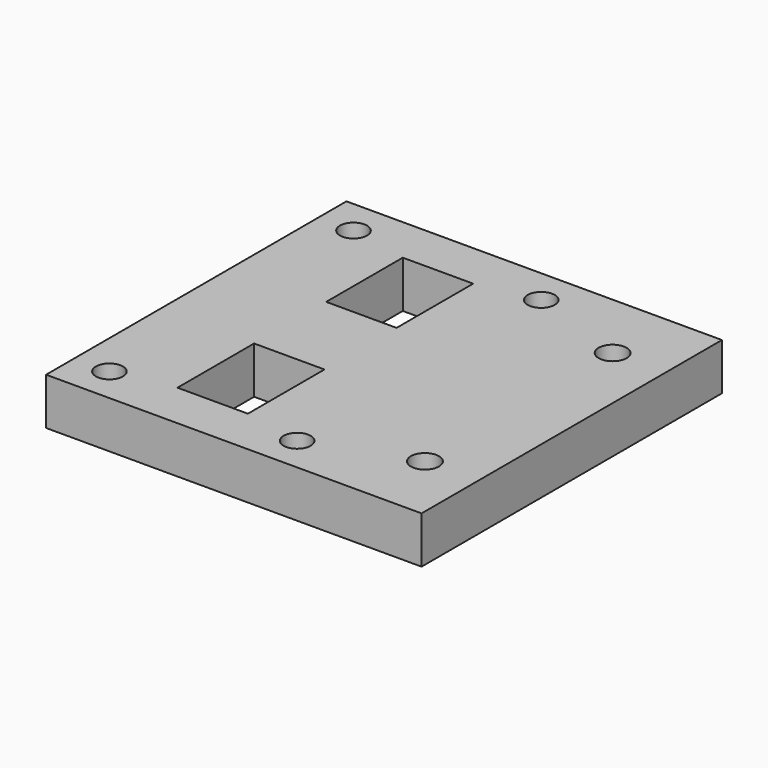
from build123d import *

# Parameters (mm, degrees)
F0_W     = 34.925
F0_H     = 50.8
F0_R     = 1.8288
F0_W_2   = 9.525
F0_H_2   = 12.954
F0_W_3   = 15.875
F0_R_2   = 1.5875
F1_DEPTH = 6.35
F2_D     = 3.6576
F3_D     = 3.7973


with BuildPart() as f1:
    # F0 (on Top) → F1 (new body)
    with BuildSketch(Plane.XY):
        with Locations((-87.3125, 0)):
            Rectangle(F0_W, F0_H)
        with Locations((-100.0125, -20.6375)):
            Circle(F0_R, mode=Mode.SUBTRACT)
        with Locations((-87.3125, -12.573)):
            Rectangle(F0_W_2, F0_H_2, mode=Mode.SUBTRACT)
        with Locations((-74.6125, -20.6375)):
            Circle(F0_R, mode=Mode.SUBTRACT)
        with Locations((-87.3125, 12.573)):
            Rectangle(F0_W_2, F0_H_2, mode=Mode.SUBTRACT)
        with Locations((-100.0125, 20.6375)):
            Circle(F0_R, mode=Mode.SUBTRACT)
        with Locations((-74.6125, 20.6375)):
            Circle(F0_R, mode=Mode.SUBTRACT)
        with Locations((-87.3125, 0)):
            Rectangle(F0_W, F0_H)
        with Locations((-100.0125, -20.6375)):
            Circle(F0_R, mode=Mode.SUBTRACT)
        with Locations((-87.3125, -12.573)):
            Rectangle(F0_W_2, F0_H_2, mode=Mode.SUBTRACT)
        with Locations((-74.6125, -20.6375)):
            Circle(F0_R, mode=Mode.SUBTRACT)
        with Locations((-87.3125, 12.573)):
            Rectangle(F0_W_2, F0_H_2, mode=Mode.SUBTRACT)
        with Locations((-100.0125, 20.6375)):
            Circle(F0_R, mode=Mode.SUBTRACT)
        with Locations((-74.6125, 20.6375)):
            Circle(F0_R, mode=Mode.SUBTRACT)
        with Locations((-61.9125, 0)):
            Rectangle(F0_W_3, F0_H)
        with Locations((-61.1378, -15.875)):
            Circle(F0_R_2, mode=Mode.SUBTRACT)
        with Locations((-61.1378, 15.875)):
            Circle(F0_R_2, mode=Mode.SUBTRACT)
        with Locations((-100.0125, -20.6375)):
            Circle(F0_R)
        with Locations((-100.0125, 20.6375)):
            Circle(F0_R)
        with Locations((-74.6125, 20.6375)):
            Circle(F0_R)
        with Locations((-74.6125, -20.6375)):
            Circle(F0_R)
        with Locations((-61.1378, 15.875)):
            Circle(F0_R_2)
        with Locations((-61.1378, -15.875)):
            Circle(F0_R_2)
    extrude(amount=F1_DEPTH)

    # F2 (through all)
    with Locations(Plane(origin=(0, 0, 0), x_dir=(1, 0, 0), z_dir=(0, 0, -1))):
        with Locations((-100.0125, -20.6375), (-74.6125, -20.6375), (-74.6125, 20.6375), (-100.0125, 20.6375)):
            Hole(F2_D / 2)

    # F3 (through all)
    with Locations(Plane(origin=(0, 0, 0), x_dir=(1, 0, 0), z_dir=(0, 0, -1))):
        with Locations((-61.1378, 15.875), (-61.1378, -15.875)):
            Hole(F3_D / 2)


solid = f1.part
